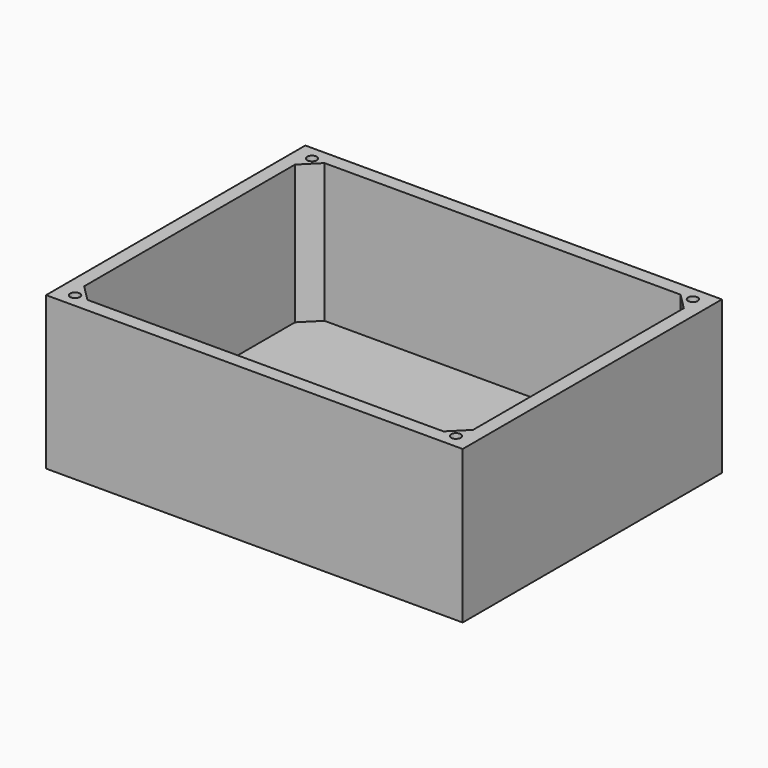
from build123d import *

# Parameters (mm, degrees)
BOX_W           = 180
BOX_H           = 140
BOX_DEPTH       = 6
SKETCH_W        = 180
SKETCH_H        = 140
PAD_DEPTH       = 60
SKETCH007_R     = 2.1
POCKET001_DEPTH = 35


with BuildPart() as part:
    # Box → Box (new body)
    with BuildSketch(Plane.XY):
        with Locations((90, 70)):
            Rectangle(BOX_W, BOX_H)
    extrude(amount=BOX_DEPTH)

    # Sketch → Pad (new body)
    with BuildSketch(Plane.XY.offset(6)):
        with Locations((90, 70)):
            Rectangle(SKETCH_W, SKETCH_H)
        Polygon((166.928932, 134), (13.071068, 134), (6, 126.928932), (6, 13.071068), (13.071068, 6), (166.928932, 6), (174, 13.071068), (174, 126.928932), align=None, mode=Mode.SUBTRACT)
    extrude(amount=PAD_DEPTH)

    # Sketch007 → Pocket001 (cut)
    with BuildSketch(Plane.XY.offset(66)):
        with Locations((172.285714, 6)):
            Circle(SKETCH007_R)
        with Locations((172.285714, 134)):
            Circle(SKETCH007_R)
        with Locations((7.714286, 134)):
            Circle(SKETCH007_R)
        with Locations((7.714286, 6)):
            Circle(SKETCH007_R)
    extrude(amount=-POCKET001_DEPTH, mode=Mode.SUBTRACT)


solid = part.part
